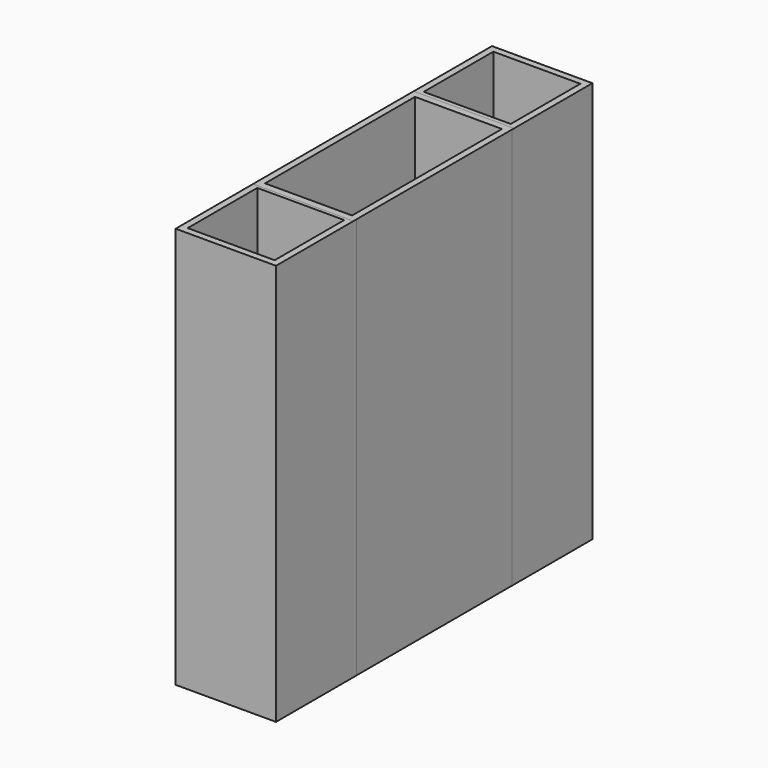
from build123d import *

# Parameters (mm, degrees)
F0_W     = 38.1
F0_H     = 38.1
F1_DEPTH = 152.4
F2_T     = -2.54
F4_W     = 38.1
F4_H     = 76.2
F5_DEPTH = 152.4
F6_T     = -2.54


with BuildPart() as f1:
    # F0 (on Top) → F1 (new body)
    with BuildSketch(Plane.XY):
        with Locations((0.848638, -55.999441)):
            Rectangle(F0_W, F0_H)
    extrude(amount=F1_DEPTH)

    # F2
    f2_openings = [f1.faces().sort_by_distance(p)[0] for p in [
        (0.848638, -55.999441, 152.4),
    ]]
    offset(amount=F2_T, openings=f2_openings)


with BuildPart() as f3_1:
    # F3: instance of F1
    add(f1.part.mirror(Plane.XZ))


with BuildPart() as f5:
    # F4 (on Top) → F5 (new body)
    with BuildSketch(Plane.XY):
        with Locations((0.829771, -0.203904)):
            Rectangle(F4_W, F4_H)
    extrude(amount=F5_DEPTH)

    # F6
    f6_openings = [f5.faces().sort_by_distance(p)[0] for p in [
        (0.829771, -0.203904, 152.4),
    ]]
    offset(amount=F6_T, openings=f6_openings)


solid = Compound([f1.part, f3_1.part, f5.part])
